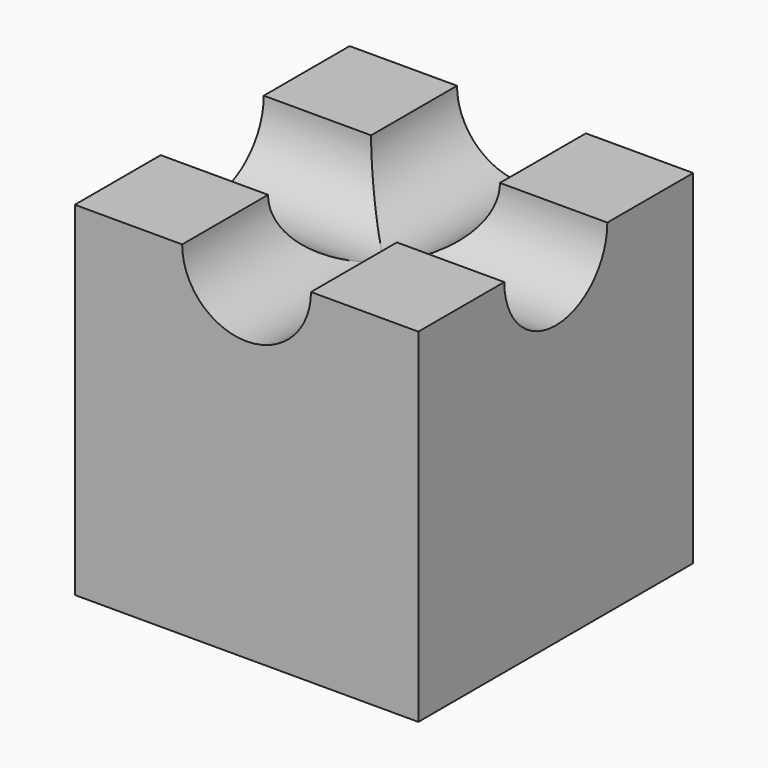
from build123d import *

# Parameters (mm, degrees)
F0_W     = 48
F0_H     = 48
F1_DEPTH = 24
F2_R     = 9
F3_DEPTH = 48
F5_DEPTH = 48


with BuildPart() as f1:
    # F0 (on Front) → F1 (new body, symmetric)
    with BuildSketch(Plane.XZ):
        Rectangle(F0_W, F0_H)
    extrude(amount=F1_DEPTH, both=True)

    # F2 (on face) → F3 (cut)
    with BuildSketch(Plane.XZ.offset(24)):
        with Locations((0, 24)):
            Circle(F2_R)
    extrude(amount=-F3_DEPTH, mode=Mode.SUBTRACT)

    # F4 (on face) → F5 (cut)
    with BuildSketch(Plane.YZ.offset(24)):
        with BuildLine():
            ThreePointArc((-9, 24), (0, 15), (9, 24))
            Line((9, 24), (-9, 24))
        make_face()
    extrude(amount=-F5_DEPTH, mode=Mode.SUBTRACT)


solid = f1.part
